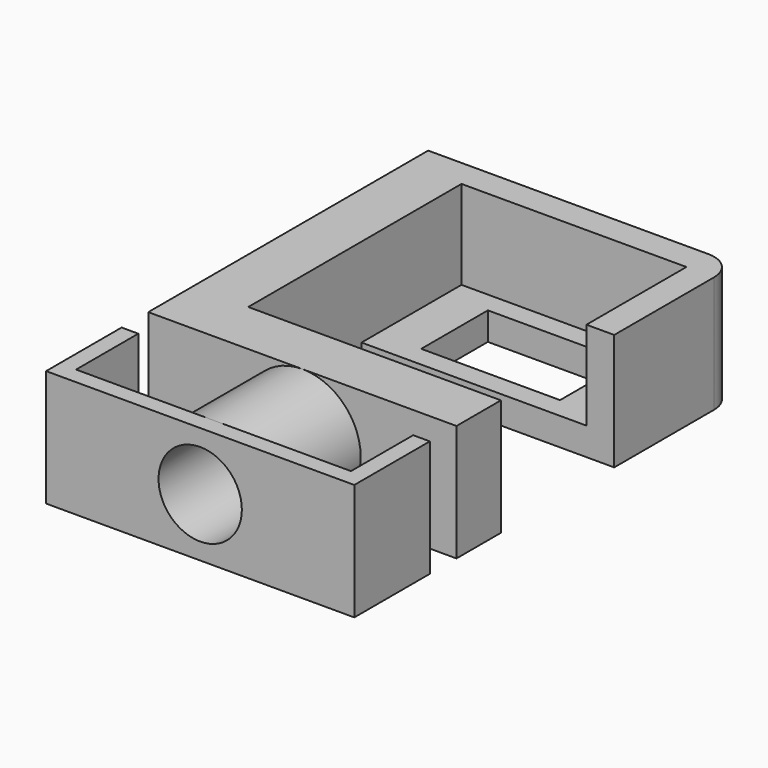
from build123d import *

# Parameters (mm, degrees)
SKETCH_W      = 25
SKETCH_H      = 15
PAD_DEPTH     = 5
PAD001_DEPTH  = 16
SKETCH002_R   = 2.5
POCKET_DEPTH  = 15
SKETCH003_R   = 10.5
SKETCH003_R_2 = 7.5
PAD002_DEPTH  = 20
SKETCH004_W   = 55.5
SKETCH004_H   = 21
SKETCH004_R   = 7.5
PAD003_DEPTH  = 3
SKETCH005_W   = 3
SKETCH005_H   = 21
PAD004_DEPTH  = 14


with BuildPart() as part:
    # Sketch → Pad (new body)
    with BuildSketch(Plane.XY):
        with BuildLine():
            Line((0, -35.5), (0, 27.5))
            Line((0, 27.5), (50.5, 27.5))
            ThreePointArc((55.5, 22.5), (54.035534, 26.035534), (50.5, 27.5))
            Line((55.5, 22.5), (55.5, 0))
            Line((55.5, 0), (10, 0))
            Line((10, 0), (10, -25.5))
            Line((10, -25.5), (55.5, -25.5))
            Line((55.5, -25.5), (55.5, -35.5))
            Line((55.5, -35.5), (0, -35.5))
        make_face()
        with Locations((30.25, 11.25)):
            Rectangle(SKETCH_W, SKETCH_H, mode=Mode.SUBTRACT)
    extrude(amount=PAD_DEPTH)

    # Sketch001 (on Face15 of Pad) → Pad001 (join)
    with BuildSketch(Plane.XY.offset(5)):
        with BuildLine():
            Line((55.5, 22.5), (55.5, 0))
            Line((55.5, 0), (50.5, 0))
            Line((50.5, 0), (50.5, 22.5))
            Line((50.5, 22.5), (10, 22.5))
            Line((10, 22.5), (10, -25.5))
            Line((55.5, -25.5), (10, -25.5))
            Line((55.5, -35.5), (55.5, -25.5))
            Line((0, -35.5), (55.5, -35.5))
            Line((0, 27.5), (0, -35.5))
            Line((50.5, 27.5), (0, 27.5))
            ThreePointArc((55.5, 22.5), (54.035534, 26.035534), (50.5, 27.5))
        make_face()
    extrude(amount=PAD001_DEPTH)

    # Sketch002 (on Face26 of Pad001) → Pocket (cut)
    with BuildSketch(Plane.XZ.offset(35.5)):
        with Locations((27.75, 10.5)):
            Circle(SKETCH002_R)
    extrude(amount=-POCKET_DEPTH, mode=Mode.SUBTRACT)

    # Sketch003 (on Face26 of Pocket) → Pad002 (join)
    with BuildSketch(Plane.XZ.offset(35.5)):
        with Locations((27.75, 10.5)):
            Circle(SKETCH003_R)
        with Locations((27.75, 10.5)):
            Circle(SKETCH003_R_2, mode=Mode.SUBTRACT)
    extrude(amount=PAD002_DEPTH)

    # Sketch004 (on Face32 of Pad002) → Pad003 (join)
    with BuildSketch(Plane.XZ.offset(55.5)):
        with Locations((27.75, 10.5)):
            Rectangle(SKETCH004_W, SKETCH004_H)
        with Locations((27.75, 10.5)):
            Circle(SKETCH004_R, mode=Mode.SUBTRACT)
    extrude(amount=PAD003_DEPTH)

    # Sketch005 (on Face33 of Pad003) → Pad004 (join)
    with BuildSketch(Plane(origin=(0, -55.5, 0), x_dir=(-1, 0, 0), z_dir=(0, 1, 0))):
        with Locations((-54, 10.5)):
            Rectangle(SKETCH005_W, SKETCH005_H)
        with Locations((-1.5, 10.5)):
            Rectangle(SKETCH005_W, SKETCH005_H)
    extrude(amount=PAD004_DEPTH)


solid = part.part
